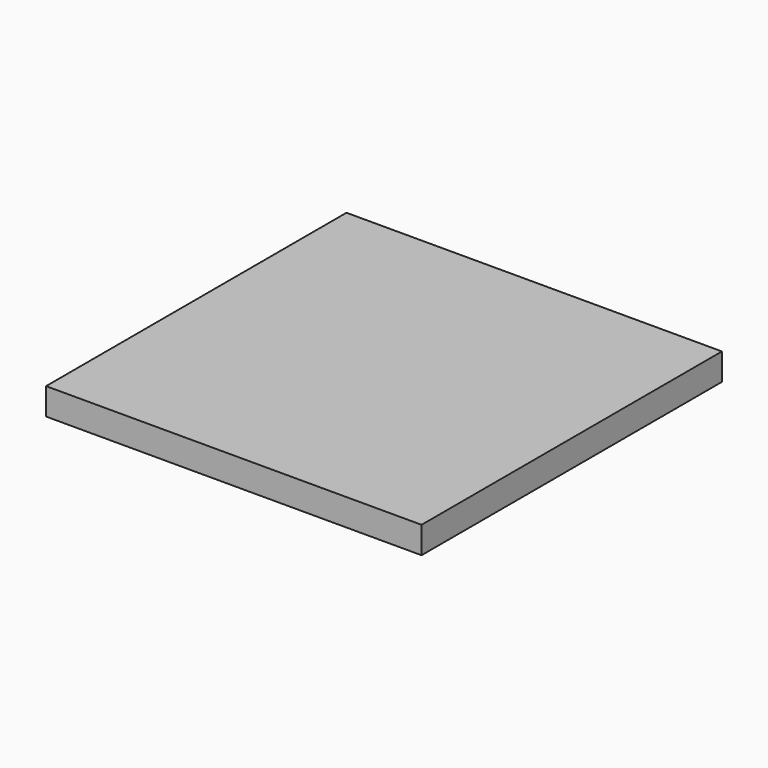
from build123d import *

# Parameters (mm, degrees)
F0_W     = 177.8
F0_H     = 177.8
F1_DEPTH = 12.7
F2_R     = 6.477
F3_DEPTH = 10.16


with BuildPart() as f1:
    # F0 (on Top) → F1 (new body)
    with BuildSketch(Plane.XY):
        Rectangle(F0_W, F0_H)
    extrude(amount=F1_DEPTH)

    # F2 (on face) → F3 (cut)
    with BuildSketch(Plane(origin=(0, 0, 0), x_dir=(1, 0, 0), z_dir=(0, 0, -1))):
        with Locations((72.263, 72.263)):
            Circle(F2_R)
        with Locations((72.263, -72.263)):
            Circle(F2_R)
        with Locations((0, -72.263)):
            Circle(F2_R)
        with Locations((-72.263, -72.263)):
            Circle(F2_R)
        with Locations((-72.263, 0)):
            Circle(F2_R)
        with Locations((0, 72.263)):
            Circle(F2_R)
        with Locations((-72.263, 72.263)):
            Circle(F2_R)
        Circle(F2_R)
        with Locations((72.263, 0)):
            Circle(F2_R)
    extrude(amount=-F3_DEPTH, mode=Mode.SUBTRACT)


solid = f1.part
